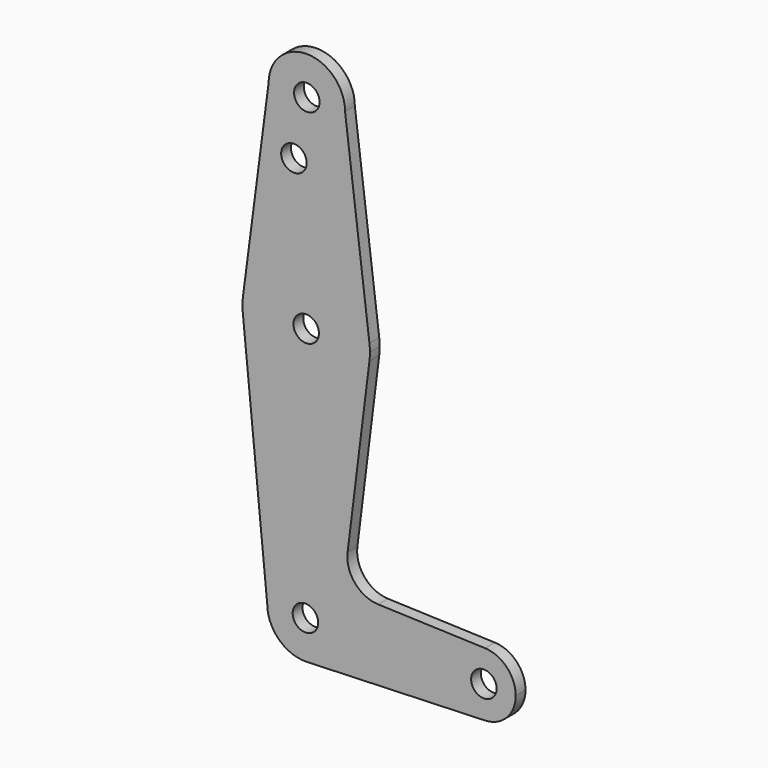
from build123d import *

# Parameters (mm, degrees)
F0_R     = 3.175
F1_DEPTH = 3.048


with BuildPart() as f1:
    # F0 (on Front) → F1 (new body)
    with BuildSketch(Plane.XZ):
        with BuildLine():
            ThreePointArc((0.340179, -9.518923), (6.854408, -6.613827), (9.525, 0))
            ThreePointArc((9.525, 0), (0, 9.525), (-9.525, 0))
            ThreePointArc((-9.525, 0), (-6.613827, -6.854408), (0.340179, -9.518923))
        make_face()
        Circle(F0_R, mode=Mode.SUBTRACT)
        with BuildLine():
            ThreePointArc((-9.525, 0), (0, 9.525), (9.525, 0))
            ThreePointArc((9.525, 0), (6.854408, -6.613827), (0.340179, -9.518923))
            Line((0.340179, -9.518923), (44.733482, -7.932436))
            ThreePointArc((44.733482, -7.932436), (36.5125, -0.000453), (44.732577, 7.932469))
            Line((44.732577, 7.932469), (18.1071, 8.880942))
            ThreePointArc((18.1071, 8.880942), (12.338748, 11.669896), (10.500773, 17.80781))
            Line((10.500773, 17.80781), (15.942494, 61.53944))
            ThreePointArc((15.942494, 61.53944), (-0.016466, 47.626048), (-15.609976, 61.947827))
            Line((-15.609976, 61.947827), (-9.525, 0))
        make_face()
        with BuildLine():
            ThreePointArc((-15.55227, 65.556028), (-15.683982, 63.753573), (-15.609976, 61.947827))
            ThreePointArc((-15.609976, 61.947827), (-0.016466, 47.626048), (15.942494, 61.53944))
            ThreePointArc((15.942494, 61.53944), (16.033585, 62.517699), (16.063988, 63.499719))
            ThreePointArc((16.063988, 63.499719), (16.033585, 64.481739), (15.942494, 65.459997))
            ThreePointArc((15.942494, 65.459997), (0.237393, 79.374645), (-15.55227, 65.556028))
        make_face()
        with Locations((0.188988, 63.499719)):
            Circle(F0_R, mode=Mode.SUBTRACT)
        with BuildLine():
            ThreePointArc((44.732577, 7.932469), (36.5125, -0.000453), (44.733482, -7.932436))
            ThreePointArc((44.733482, -7.932436), (50.162007, -5.511523), (52.3875, 0))
            ThreePointArc((52.3875, 0), (50.161692, 5.511849), (44.732577, 7.932469))
        make_face()
        with Locations((44.45, 0)):
            Circle(F0_R, mode=Mode.SUBTRACT)
        with BuildLine():
            Line((-9.184821, 114.299494), (-15.55227, 65.556028))
            ThreePointArc((-15.55227, 65.556028), (0.237393, 79.374645), (15.942494, 65.459997))
            Line((15.942494, 65.459997), (9.865179, 114.299494))
            ThreePointArc((9.865179, 114.299494), (0.340179, 104.774494), (-9.184821, 114.299494))
        make_face()
        with Locations((-2.877703, 99.89595)):
            Circle(F0_R, mode=Mode.SUBTRACT)
        with BuildLine():
            ThreePointArc((9.865179, 114.299494), (0.340179, 123.824494), (-9.184821, 114.299494))
            ThreePointArc((-9.184821, 114.299494), (0.340179, 104.774494), (9.865179, 114.299494))
        make_face()
        with Locations((0.340179, 114.299494)):
            Circle(F0_R, mode=Mode.SUBTRACT)
    extrude(amount=F1_DEPTH)


solid = f1.part
